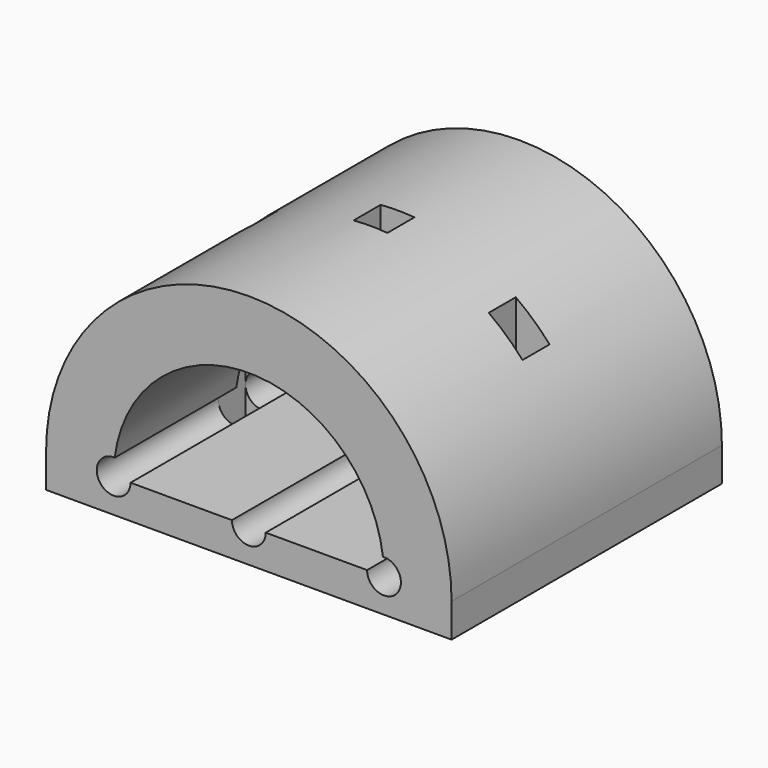
from build123d import *

# Parameters (mm, degrees)
F0_W     = 120
F0_H     = 100
F1_DEPTH = 10
F3_DEPTH = 100
F5_DEPTH = 100.001
F6_W     = 10
F6_H     = 10
F7_DEPTH = 70.001


with BuildPart() as f1:
    # F0 (on Top) → F1 (new body)
    with BuildSketch(Plane.XY):
        Rectangle(F0_W, F0_H)
    extrude(amount=F1_DEPTH)

    # F2 (on face) → F3 (join, through all)
    with BuildSketch(Plane.XZ.offset(50)):
        with BuildLine():
            Line((-60, 10), (60, 10))
            ThreePointArc((60, 10), (0, 70), (-60, 10))
        make_face()
    extrude(amount=-F3_DEPTH)

    # F4 (on face) → F5 (cut, through all)
    with BuildSketch(Plane.XZ.offset(50)):
        with BuildLine():
            Line((-5, 10), (5, 10))
            ThreePointArc((5, 10), (0, 15), (-5, 10))
        make_face()
        with BuildLine():
            ThreePointArc((-5, 10), (0, 5), (5, 10))
            Line((5, 10), (-5, 10))
        make_face()
        with BuildLine():
            ThreePointArc((-5, 10), (0, 15), (5, 10))
            Line((5, 10), (35, 10))
            ThreePointArc((35, 10), (36.3556550657, 13.4232659844), (39.6875, 14.9902248196))
            ThreePointArc((39.6875, 14.9902248196), (0, 50), (-39.6875, 14.9902248196))
            ThreePointArc((-39.6875, 14.9902248196), (-36.3556550657, 13.4232659844), (-35, 10))
            Line((-35, 10), (-5, 10))
        make_face()
        with BuildLine():
            Line((40, 10), (35, 10))
            ThreePointArc((35, 10), (40, 5), (45, 10))
            ThreePointArc((45, 10), (43.4232659844, 13.6443449343), (39.6875, 14.9902248196))
            ThreePointArc((39.6875, 14.9902248196), (39.9217985567, 12.5), (40, 10))
        make_face()
        with BuildLine():
            ThreePointArc((39.6875, 14.9902248196), (36.3556550657, 13.4232659844), (35, 10))
            Line((35, 10), (40, 10))
            ThreePointArc((40, 10), (39.9217985567, 12.5), (39.6875, 14.9902248196))
        make_face()
        with BuildLine():
            Line((-40, 10), (-35, 10))
            ThreePointArc((-35, 10), (-36.3556550657, 13.4232659844), (-39.6875, 14.9902248196))
            ThreePointArc((-39.6875, 14.9902248196), (-39.9217985567, 12.5), (-40, 10))
        make_face()
        with BuildLine():
            ThreePointArc((-39.6875, 14.9902248196), (-43.6443449343, 6.5767340156), (-35, 10))
            Line((-35, 10), (-40, 10))
            ThreePointArc((-40, 10), (-39.9217985567, 12.5), (-39.6875, 14.9902248196))
        make_face()
    extrude(amount=-F5_DEPTH, mode=Mode.SUBTRACT)

    # F6 (on face) → F7 (cut, through all)
    with BuildSketch(Plane(origin=(0, 0, 0), x_dir=(1, 0, 0), z_dir=(0, 0, -1))):
        Rectangle(F6_W, F6_H)
        with Locations((40, 0)):
            Rectangle(F6_W, F6_H)
        with Locations((-40, 0)):
            Rectangle(F6_W, F6_H)
    extrude(amount=-F7_DEPTH, mode=Mode.SUBTRACT)


solid = f1.part
